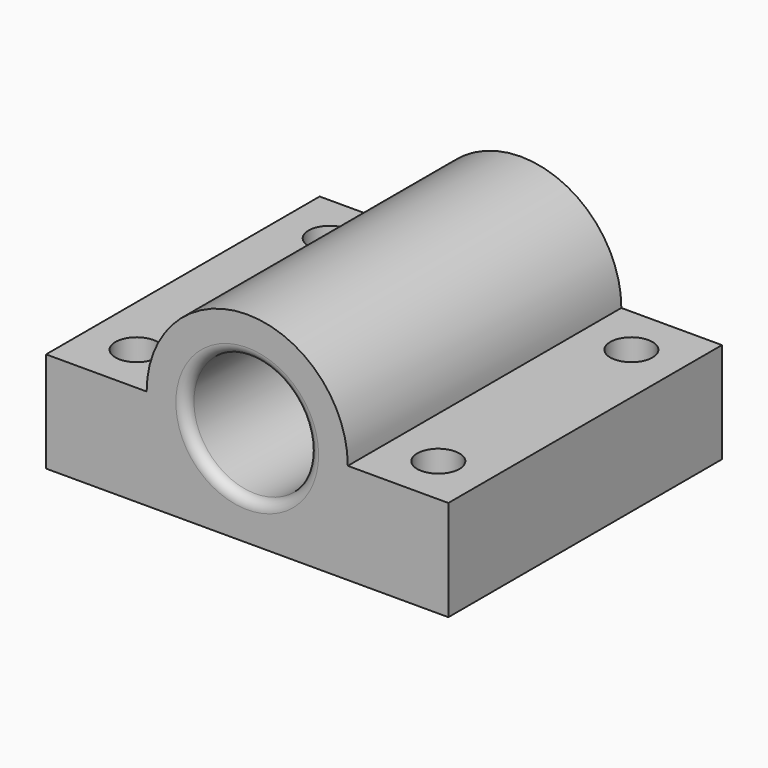
from build123d import *

# Parameters (mm, degrees)
SKETCH_R       = 3.05
PAD_DEPTH      = 7
PAD_DEPTH_BACK = 10
SKETCH001_R    = 1.05
POCKET_DEPTH   = 5
FILLET_R       = 0.5


with BuildPart() as part:
    # Sketch → Pad (new body, two sides)
    with BuildSketch(Plane.XZ) as pad_sk:
        with BuildLine():
            Line((10, 0), (10, -5))
            Line((10, -5), (-10, -5))
            Line((-10, -5), (-10, 0))
            Line((-10, 0), (-5, 0))
            ThreePointArc((5, 0), (0, 5), (-5, 0))
            Line((10, 0), (5, 0))
        make_face()
        Circle(SKETCH_R, mode=Mode.SUBTRACT)
    extrude(amount=PAD_DEPTH)
    extrude(pad_sk.sketch, amount=-PAD_DEPTH_BACK)

    # Sketch001 → Pocket (cut)
    with BuildSketch(Plane(origin=(0, 0, -5), x_dir=(1, 0, 0), z_dir=(0, 0, -1))):
        with Locations((-7.5, 4.5)):
            Circle(SKETCH001_R)
        with Locations((-7.5, -7.5)):
            Circle(SKETCH001_R)
        with Locations((7.5, -7.5)):
            Circle(SKETCH001_R)
        with Locations((7.5, 4.5)):
            Circle(SKETCH001_R)
    extrude(amount=-POCKET_DEPTH, mode=Mode.SUBTRACT)

    # Fillet
    fillet_edges = [part.edges().sort_by_distance(p)[0] for p in [
        (-3.05, 10, 0),
        (-3.05, -7, 0),
    ]]
    fillet(fillet_edges, radius=FILLET_R)


solid = part.part
